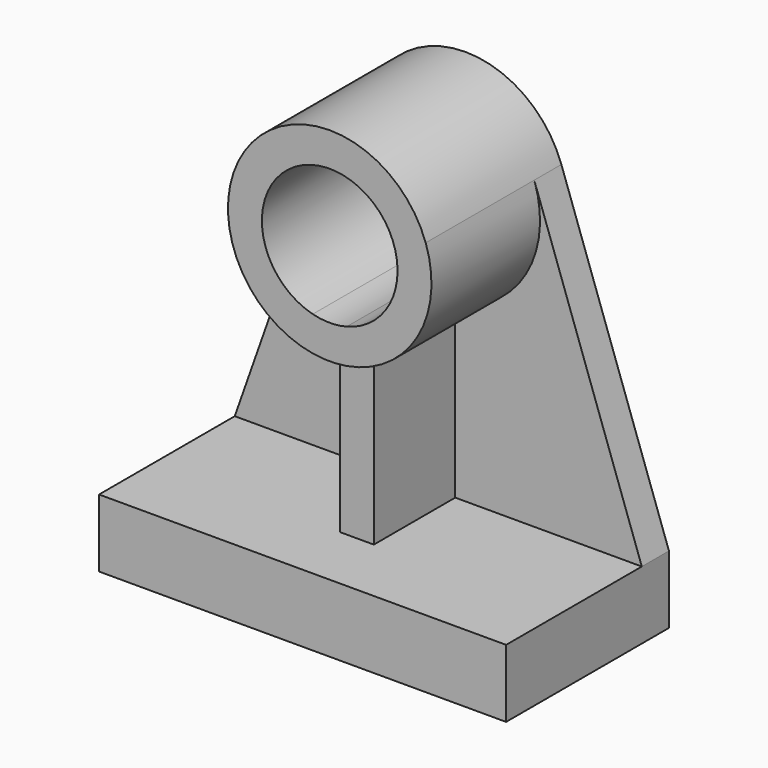
from build123d import *

# Parameters (mm, degrees)
F1_DEPTH = 127
F2_DEPTH = 25.4
F3_DEPTH = 152.4
F4_DEPTH = 101.6


with BuildPart() as f1:
    # F0 (on Front) → F1 (new body)
    with BuildSketch(Plane.XZ):
        with BuildLine():
            ThreePointArc((12.7, -49.1868884968), (0, -50.8), (-12.7, -49.1868884968))
            Line((-12.7, -49.1868884968), (-12.7, -75.1342132454))
            ThreePointArc((-12.7, -75.1342132454), (0, -76.2), (12.7, -75.1342132454))
            Line((12.7, -75.1342132454), (12.7, -49.1868884968))
        make_face()
        with BuildLine():
            ThreePointArc((-12.7, -49.1868884968), (-31.1085197333, 40.1609262841), (50.8, 0))
            ThreePointArc((50.8, 0), (40.1609262841, -31.1085197333), (12.7, -49.1868884968))
            Line((12.7, -49.1868884968), (12.7, -75.1342132454))
            ThreePointArc((12.7, -75.1342132454), (58.1987113259, -49.1868884968), (76.2, 0))
            ThreePointArc((76.2, 0), (75.1092264284, 12.8469492616), (71.8681337184, 25.3261002888))
            ThreePointArc((71.8681337184, 25.3261002888), (0, 76.2), (-71.8681337184, 25.3261002888))
            ThreePointArc((-71.8681337184, 25.3261002888), (-65.6582893396, -38.6707776105), (-12.7, -75.1342132454))
            Line((-12.7, -75.1342132454), (-12.7, -49.1868884968))
        make_face()
    extrude(amount=F1_DEPTH)

    # F0 (on Front) → F2 (join)
    with BuildSketch(Plane.XZ):
        with BuildLine():
            Line((-12.7, -203.2), (-12.7, -75.1342132454))
            ThreePointArc((-12.7, -75.1342132454), (-65.6582893396, -38.6707776105), (-71.8681337184, 25.3261002888))
            Line((-71.8681337184, 25.3261002888), (-152.4, -203.2))
            Line((-152.4, -203.2), (-12.7, -203.2))
        make_face()
        with BuildLine():
            ThreePointArc((76.2, 0), (58.1987113259, -49.1868884968), (12.7, -75.1342132454))
            Line((12.7, -75.1342132454), (12.7, -203.2))
            Line((12.7, -203.2), (152.4, -203.2))
            Line((152.4, -203.2), (71.8681337184, 25.3261002888))
            ThreePointArc((71.8681337184, 25.3261002888), (75.1092264284, 12.8469492616), (76.2, 0))
        make_face()
    extrude(amount=F2_DEPTH)

    # F0 (on Front) → F3 (join)
    with BuildSketch(Plane.XZ):
        Polygon((12.7, -203.2), (-12.7, -203.2), (-152.4, -203.2), (-152.4, -254), (152.4, -254), (152.4, -203.2), align=None)
    extrude(amount=F3_DEPTH)

    # F0 (on Front) → F4 (join)
    with BuildSketch(Plane.XZ):
        with BuildLine():
            ThreePointArc((12.7, -75.1342132454), (0, -76.2), (-12.7, -75.1342132454))
            Line((-12.7, -75.1342132454), (-12.7, -203.2))
            Line((-12.7, -203.2), (12.7, -203.2))
            Line((12.7, -203.2), (12.7, -75.1342132454))
        make_face()
    extrude(amount=F4_DEPTH)


solid = f1.part
